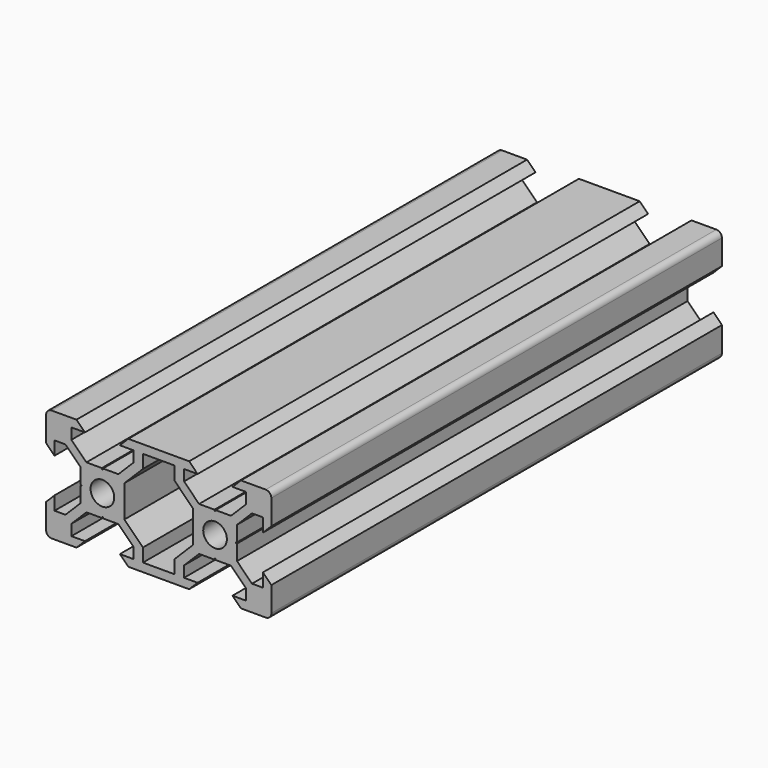
from build123d import *

# Parameters (mm, degrees)
F1_DEPTH = 50
F2_R     = 1


with BuildPart() as f1:
    # F0 (on Front) → F1 (new body, symmetric)
    with BuildSketch(Plane.XZ):
        Polygon((-15.5, 6.5606601718), (-15.5, 8.4999998663), (-13.1, 8.4999998663), (-14.6, 9.9999998663), (-20, 9.9999998663), (-20, 4.5999998663), (-18.4999998663, 3.1), (-18.4999998663, 5.5), (-16.5606601718, 5.5), (-13.9, 2.8393398282), (-13.9, 0.1), (-13.7, 0.1), (-13.7, 0), (-13.7, -0.1), (-13.9, -0.1), (-13.9, -2.8393398282), (-16.5606601718, -5.5), (-18.4999998663, -5.5), (-18.4999998663, -3.1), (-20, -4.5999998663), (-20, -9.9999998663), (-14.6, -9.9999998663), (-13.1, -8.4999998663), (-15.5, -8.4999998663), (-15.5, -6.5606601718), (-12.8393398282, -3.9), (-10.1, -3.9), (-10.1, -3.7), (-9.9, -3.7), (-9.9, -3.9), (-7.1606601718, -3.9), (-4.5, -6.5606601718), (-4.5, -8.4999998663), (-6.9, -8.4999998663), (-5.4, -9.9999998663), (0, -9.9999998663), (5.4, -9.9999998663), (6.9, -8.4999998663), (4.5, -8.4999998663), (4.5, -6.5606601718), (7.1606601718, -3.9), (9.9, -3.9), (9.9, -3.7), (10.1, -3.7), (10.1, -3.9), (12.8393398282, -3.9), (15.5, -6.5606601718), (15.5, -8.4999998663), (13.1, -8.4999998663), (14.6, -9.9999998663), (20, -9.9999998663), (20, -4.5999998663), (18.4999998663, -3.1), (18.4999998663, -5.5), (16.5606601718, -5.5), (13.9, -2.8393398282), (13.9, -0.1), (13.7, -0.1), (13.7, 0), (13.7, 0.1), (13.9, 0.1), (13.9, 2.8393398282), (16.5606601718, 5.5), (18.4999998663, 5.5), (18.4999998663, 3.1), (20, 4.5999998663), (20, 9.9999998663), (14.6, 9.9999998663), (13.1, 8.4999998663), (15.5, 8.4999998663), (15.5, 6.5606601718), (12.8393398282, 3.9), (10.1, 3.9), (10.1, 3.7), (9.9, 3.7), (9.9, 3.9), (7.1606601718, 3.9), (4.5, 6.5606601718), (4.5, 8.4999998663), (6.9, 8.4999998663), (5.4, 9.9999998663), (0, 9.9999998663), (-5.4, 9.9999998663), (-6.9, 8.4999998663), (-4.5, 8.4999998663), (-4.5, 6.5606601718), (-7.1606601718, 3.9), (-9.9, 3.9), (-9.9, 3.7), (-10.1, 3.7), (-10.1, 3.9), (-12.8393398282, 3.9), align=None)
        with BuildLine():
            ThreePointArc((-12.1, 0), (-10, 2.1), (-7.9, 0))
            ThreePointArc((-7.9, 0), (-10, -2.1), (-12.1, 0))
        make_face(mode=Mode.SUBTRACT)
        Polygon((-6.1, 2.8393398282), (-2.8, 6.1393398282), (-2.8, 8.4999998663), (0, 8.4999998663), (2.8, 8.4999998663), (2.8, 6.1393398282), (6.1, 2.8393398282), (6.1, 0), (6.1, -2.8393398282), (2.8, -6.1393398282), (2.8, -8.4999998663), (0, -8.4999998663), (-2.8, -8.4999998663), (-2.8, -6.1393398282), (-6.1, -2.8393398282), (-6.1, 0), align=None, mode=Mode.SUBTRACT)
        with BuildLine():
            ThreePointArc((12.1, 0), (10, -2.1), (7.9, 0))
            ThreePointArc((7.9, 0), (10, 2.1), (12.1, 0))
        make_face(mode=Mode.SUBTRACT)
    extrude(amount=F1_DEPTH, both=True)

    # F2
    f2_edges = [f1.edges().sort_by_distance(p)[0] for p in [
        (-20, 0, 10),
        (20, 0, 10),
        (20, 0, -10),
        (-20, 0, -10),
    ]]
    fillet(f2_edges, radius=F2_R)


solid = f1.part
